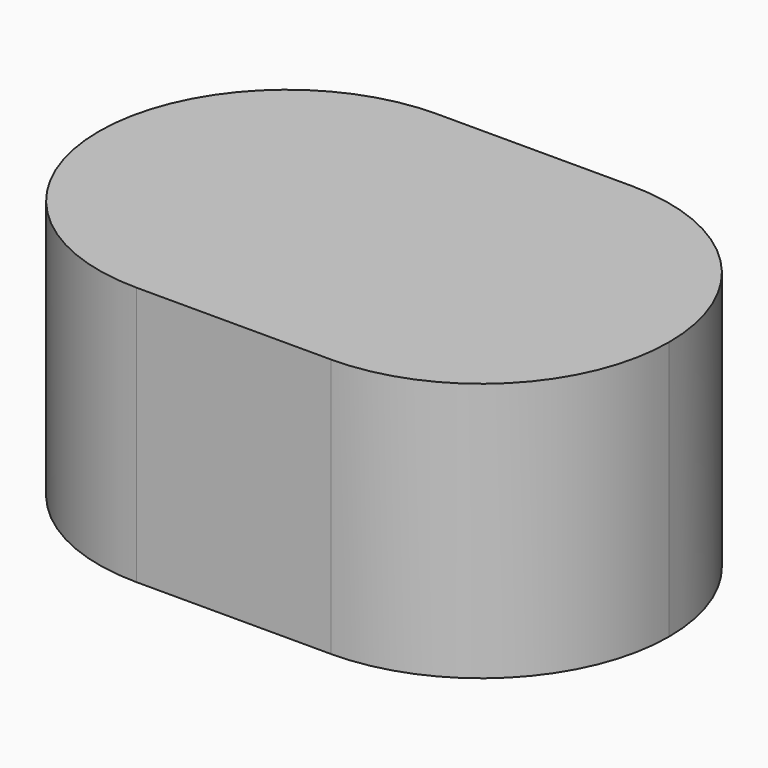
from build123d import *

# Parameters (mm, degrees)
F2_DEPTH = 20
F3_DEPTH = 18


with BuildPart() as f2:
    # F1 (on Top) → F2 (new body)
    with BuildSketch(Plane.XY):
        with BuildLine():
            Line((7.5, 14.5), (-7.5, 14.5))
            ThreePointArc((-7.5, 14.5), (-17.753048, 10.253048), (-22, 0))
            ThreePointArc((-22, 0), (-17.753048, -10.253048), (-7.5, -14.5))
            Line((-7.5, -14.5), (7.5, -14.5))
            ThreePointArc((7.5, -14.5), (17.753048, -10.253048), (22, 0))
            ThreePointArc((22, 0), (17.753048, 10.253048), (7.5, 14.5))
        make_face()
    extrude(amount=F2_DEPTH)

    # F0 (on Top) → F3 (cut)
    with BuildSketch(Plane.XY):
        with BuildLine():
            Line((7.5, 13.5), (-8.5, 13.5))
            ThreePointArc((-8.5, 13.5), (-17.338835, 9.838835), (-21, 1))
            Line((-21, 1), (-21, 0))
            ThreePointArc((-21, 0), (-17.045942, -9.545942), (-7.5, -13.5))
            Line((-7.5, -13.5), (7.5, -13.5))
            ThreePointArc((7.5, -13.5), (17.045942, -9.545942), (21, 0))
            ThreePointArc((21, 0), (17.045942, 9.545942), (7.5, 13.5))
        make_face()
    extrude(amount=F3_DEPTH, mode=Mode.SUBTRACT)


solid = f2.part
